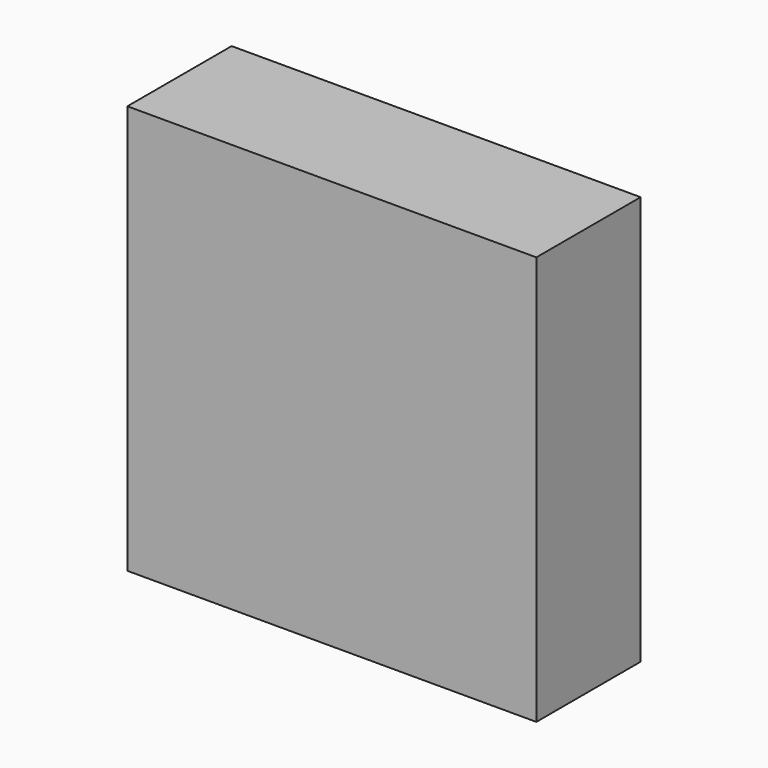
from build123d import *

# Parameters (mm, degrees)
SKETCH_W     = 91
SKETCH_H     = 91
PAD_DEPTH    = 29
SKETCH001_W  = 84.1
SKETCH001_H  = 84.1
POCKET_DEPTH = 26


with BuildPart() as part:
    # Sketch (on XZ_Plane of Origin) → Pad (new body)
    with BuildSketch(Plane.XZ):
        Rectangle(SKETCH_W, SKETCH_H)
    extrude(amount=PAD_DEPTH)

    # Sketch001 (on XZ_Plane of Origin) → Pocket (cut)
    with BuildSketch(Plane.XZ):
        Rectangle(SKETCH001_W, SKETCH001_H)
    extrude(amount=POCKET_DEPTH, mode=Mode.SUBTRACT)


solid = part.part
